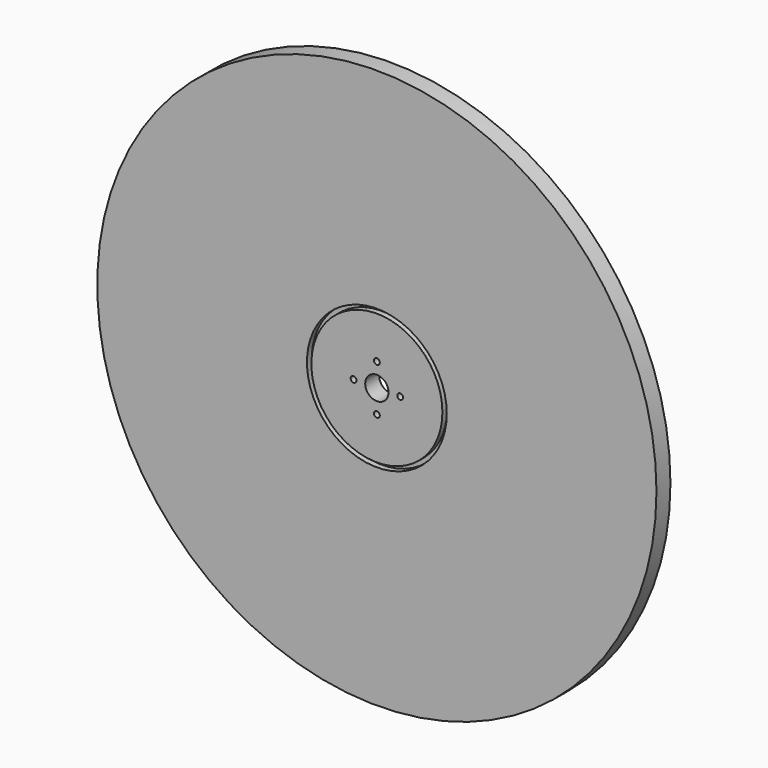
from build123d import *

# Parameters (mm, degrees)
F0_R     = 609.6
F0_R_2   = 6.35
F0_R_3   = 25.4
F1_DEPTH = 19.05
F2_R     = 152.4
F2_R_2   = 142.875
F3_DEPTH = 12.7


with BuildPart() as f1:
    # F0 (on Front) → F1 (new body, symmetric)
    with BuildSketch(Plane.XZ):
        Circle(F0_R)
        with Locations((0, -50.8)):
            Circle(F0_R_2, mode=Mode.SUBTRACT)
        with Locations((-50.8, 0)):
            Circle(F0_R_2, mode=Mode.SUBTRACT)
        Circle(F0_R_3, mode=Mode.SUBTRACT)
        with Locations((50.8, 0)):
            Circle(F0_R_2, mode=Mode.SUBTRACT)
        with Locations((0, 50.8)):
            Circle(F0_R_2, mode=Mode.SUBTRACT)
    extrude(amount=F1_DEPTH, both=True)

    # F2 (on face) → F3 (cut)
    with BuildSketch(Plane.XZ.offset(19.05)):
        Circle(F2_R)
        Circle(F2_R_2, mode=Mode.SUBTRACT)
    extrude(amount=-F3_DEPTH, mode=Mode.SUBTRACT)


solid = f1.part
